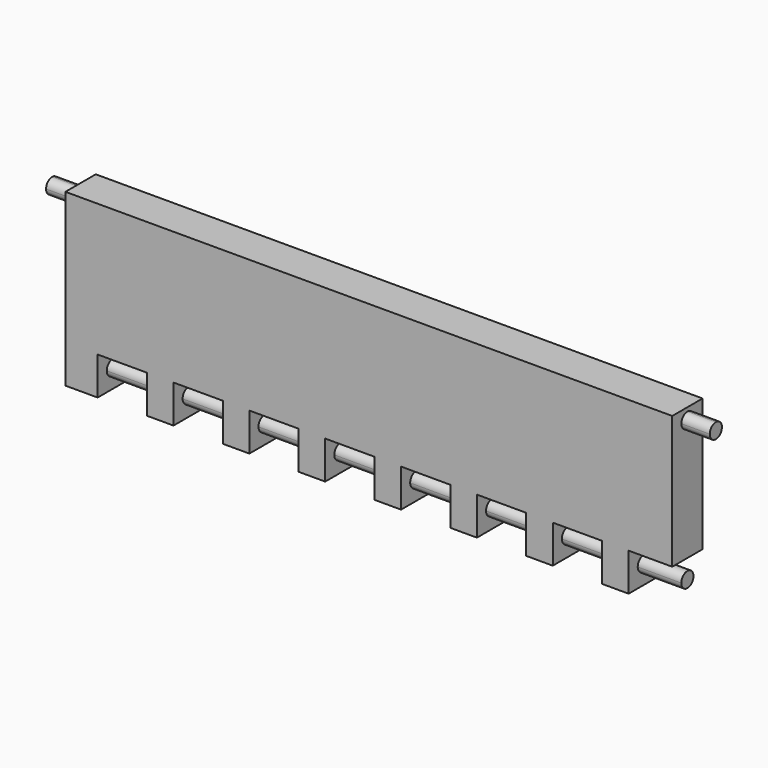
from build123d import *

# Parameters (mm, degrees)
F0_W          = 17.78
F0_H          = 25.4
F0_W_2        = 3.81
F1_DEPTH      = 25.4
F3_DEPTH      = 406.4
F5_DEPTH      = 19.05
F5_DEPTH_BACK = 425.45


with BuildPart() as f1:
    # F0 (on Front) → F1 (new body)
    with BuildSketch(Plane.XZ):
        Polygon((199.39, -31.75), (203.2, -31.75), (203.2, 57.15), (-203.2, 57.15), (-203.2, -31.75), (-199.39, -31.75), (-181.61, -31.75), (-177.8, -31.75), (-173.99, -31.75), (-156.21, -31.75), (-152.4, -31.75), (-148.59, -31.75), (-130.81, -31.75), (-127, -31.75), (-123.19, -31.75), (-105.41, -31.75), (-101.6, -31.75), (-97.79, -31.75), (-80.01, -31.75), (-76.2, -31.75), (-72.39, -31.75), (-54.61, -31.75), (-50.8, -31.75), (-46.99, -31.75), (-29.21, -31.75), (-25.4, -31.75), (-21.59, -31.75), (-3.81, -31.75), (0, -31.75), (3.81, -31.75), (21.59, -31.75), (25.4, -31.75), (29.21, -31.75), (46.99, -31.75), (50.8, -31.75), (54.61, -31.75), (72.39, -31.75), (76.2, -31.75), (80.01, -31.75), (97.79, -31.75), (101.6, -31.75), (105.41, -31.75), (123.19, -31.75), (127, -31.75), (130.81, -31.75), (148.59, -31.75), (152.4, -31.75), (156.21, -31.75), (173.99, -31.75), (177.8, -31.75), (181.61, -31.75), align=None)
        with Locations((-190.5, -44.45)):
            Rectangle(F0_W, F0_H)
        with Locations((-139.7, -44.45)):
            Rectangle(F0_W, F0_H)
        with Locations((-88.9, -44.45)):
            Rectangle(F0_W, F0_H)
        with Locations((-38.1, -44.45)):
            Rectangle(F0_W, F0_H)
        with Locations((12.7, -44.45)):
            Rectangle(F0_W, F0_H)
        with Locations((63.5, -44.45)):
            Rectangle(F0_W, F0_H)
        with Locations((165.1, -44.45)):
            Rectangle(F0_W, F0_H)
        with Locations((114.3, -44.45)):
            Rectangle(F0_W, F0_H)
        with Locations((-201.295, -44.45)):
            Rectangle(F0_W_2, F0_H)
    extrude(amount=F1_DEPTH)

    # F2 (on face) → F3 (join)
    with BuildSketch(Plane(origin=(-203.2, 0, 0), x_dir=(0, -1, 0), z_dir=(-1, 0, 0))):
        with BuildLine():
            ThreePointArc((12.7, -49.53), (16.292102, -48.042102), (17.78, -44.45))
            ThreePointArc((17.78, -44.45), (9.107898, -40.857898), (12.7, -49.53))
        make_face()
    extrude(amount=-F3_DEPTH)

    # F4 (on face) → F5 (join, two sides)
    with BuildSketch(Plane(origin=(-203.2, 0, 0), x_dir=(0, -1, 0), z_dir=(-1, 0, 0))) as f5_sk:
        with BuildLine():
            ThreePointArc((12.7, 54.61), (9.107898, 45.937898), (17.78, 49.53))
            ThreePointArc((17.78, 49.53), (16.292102, 53.122102), (12.7, 54.61))
        make_face()
    extrude(amount=F5_DEPTH)
    extrude(f5_sk.sketch, amount=-F5_DEPTH_BACK)


solid = f1.part
